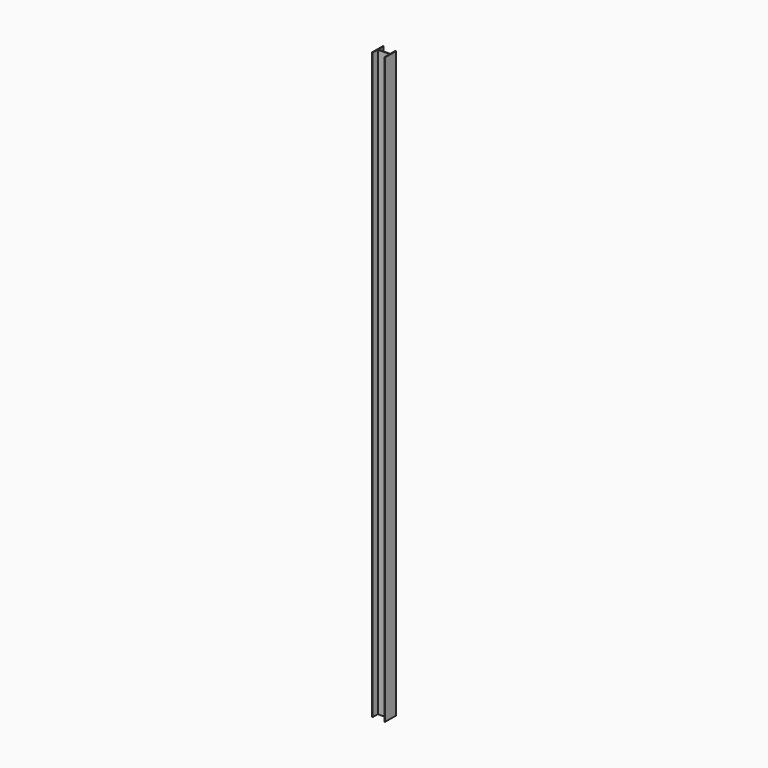
from build123d import *

# Parameters (mm, degrees)
F0_W     = 18
F0_H     = 1
F1_DEPTH = 880


with BuildPart() as f1:
    # F0 (on Top) → F1 (new body)
    with BuildSketch(Plane.XY):
        Polygon((-4.798379, 11), (-5.798379, 11), (-5.798379, -10), (-4.798379, -10), (-4.798379, 0), (-4.798379, 1), align=None)
        with Locations((4.201621, 0.5)):
            Rectangle(F0_W, F0_H)
        Polygon((13.201621, 11), (13.201621, 1), (13.201621, 0), (13.201621, -10), (14.201621, -10), (14.201621, 11), align=None)
    extrude(amount=F1_DEPTH)


solid = f1.part
